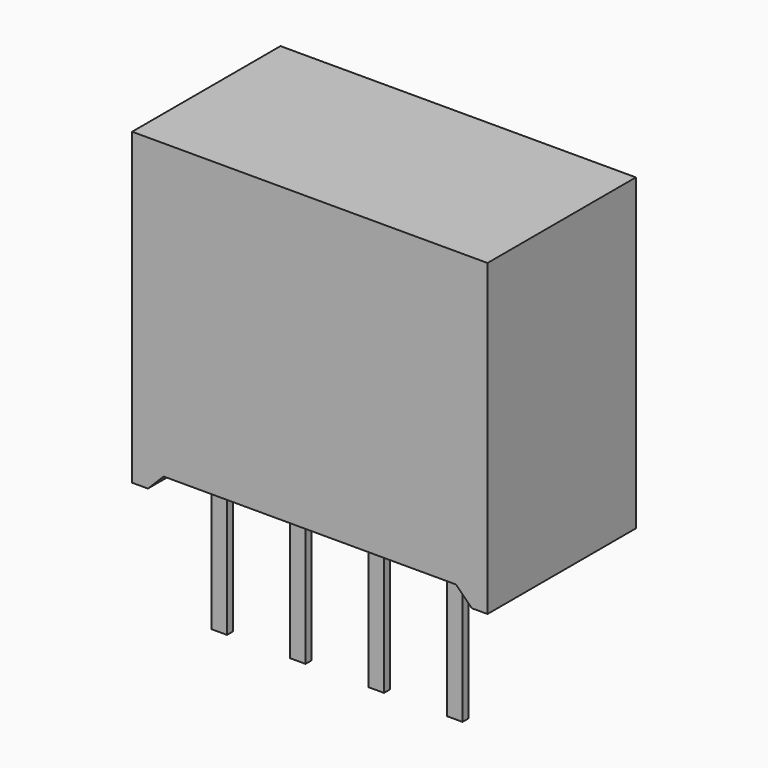
from build123d import *

# Parameters (mm, degrees)
SKETCH_W          = 11.5
SKETCH_H          = 6
PAD_DEPTH         = 10
POCKET_DEPTH      = 4.731
POCKET_DEPTH_BACK = 1.271
SKETCH002_W       = 0.51
SKETCH002_H       = 0.25
PAD001_DEPTH      = 0.51
PAD001_DEPTH_BACK = 4.1
ARRAY_X_COUNT     = 4
ARRAY_X_PITCH     = 2.54


with BuildPart() as body:
    # Sketch → Pad (new body)
    with BuildSketch(Plane.XY):
        with Locations((3.85, 1.73)):
            Rectangle(SKETCH_W, SKETCH_H)
    extrude(amount=PAD_DEPTH)

    # Sketch001 → Pocket (cut, two sides)
    with BuildSketch(Plane.XZ) as pocket_sk:
        Polygon((-0.88, 0.51), (-1.39, 0), (9.09, 0), (8.58, 0.51), align=None)
    extrude(amount=-POCKET_DEPTH, mode=Mode.SUBTRACT)
    extrude(pocket_sk.sketch, amount=POCKET_DEPTH_BACK, mode=Mode.SUBTRACT)


with BuildPart() as array:
    # Sketch002 → Pad001 (new body, two sides)
    with BuildSketch(Plane.XY) as pad001_sk:
        Rectangle(SKETCH002_W, SKETCH002_H)
    extrude(amount=PAD001_DEPTH)
    extrude(pad001_sk.sketch, amount=-PAD001_DEPTH_BACK)

    # Array X: Array ×4


with BuildPart() as array_1:
    add(array.part)
    with Locations(*[(i * ARRAY_X_PITCH, 0, 0) for i in range(1, ARRAY_X_COUNT)]):
        add(array.part)


solid = Compound([body.part, array_1.part])
